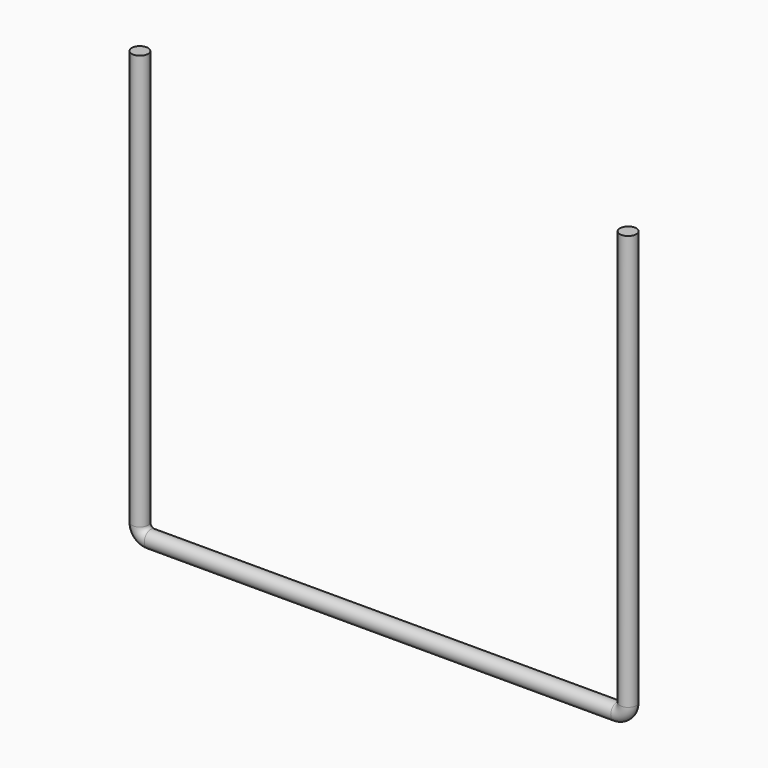
from build123d import *

# Parameters (mm, degrees)
F0_R = 15


with BuildPart() as f3:
    # F3: sweep along a path in F2
    with BuildLine(Plane.XZ.offset(36.91316396)) as f3_path:
        Line((-399.0737497807, 0), (-399.0737497807, -765))
        ThreePointArc((-399.0737497807, -765), (-393.2158854044, -779.1421356237), (-379.0737497807, -785))
        Line((-379.0737497807, -785), (480.9262502193, -785))
        ThreePointArc((480.9262502193, -785), (495.0683858431, -779.1421356237), (500.9262502193, -765))
        Line((500.9262502193, -765), (500.9262502193, 0))
    # F0 (on Top) → F3 (sweep)
    with BuildSketch(Plane.XY):
        with Locations((-399.0737497807, -36.91316396)):
            Circle(F0_R)
    sweep(path=f3_path.line)


solid = f3.part
